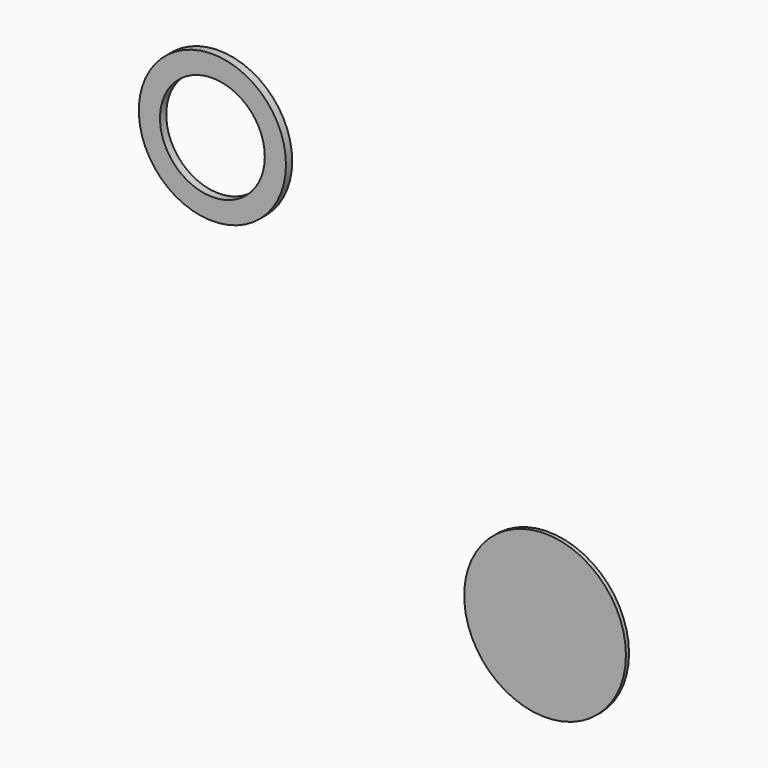
from build123d import *

# Parameters (mm, degrees)
F0_R     = 10.334091
F1_DEPTH = 0.5
F2_R     = 9.400953
F2_R_2   = 6.69718
F3_DEPTH = 1


with BuildPart() as f1:
    # F0 (on Front) → F1 (new body)
    with BuildSketch(Plane.XZ):
        Circle(F0_R)
    extrude(amount=F1_DEPTH)


with BuildPart() as f3:
    # F2 (on Front) → F3 (new body)
    with BuildSketch(Plane.XZ):
        with Locations((-42.110376, 41.390542)):
            Circle(F2_R)
        with Locations((-42.110376, 41.390542)):
            Circle(F2_R_2, mode=Mode.SUBTRACT)
    extrude(amount=F3_DEPTH)


solid = Compound([f1.part, f3.part])
